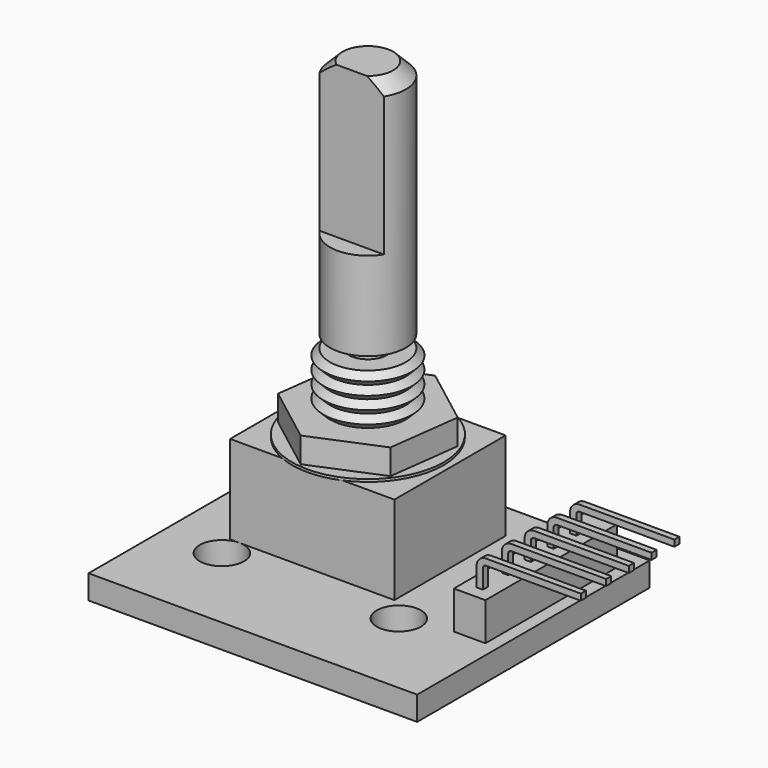
from build123d import *

# Parameters (mm, degrees)
F0_W      = 26
F0_H      = 23
F1_DEPTH  = 1.9
F3_W      = 13
F3_H      = 11
F4_DEPTH  = 7
F5_R      = 6
F6_DEPTH  = 0.2
F8_DEPTH  = 2
F14_W     = 6.9831185974
F14_H     = 2.036742866
F15_DEPTH = 12
F16_SIZE  = 1
F17_W     = 2.5
F17_H     = 13
F18_DEPTH = 3
F20_R     = 1.75
F21_DEPTH = 2
F23_W     = 0.5
F23_H     = 0.5
F27_DEPTH = 0.5
F30_DEPTH = 0.5
F33_DEPTH = 0.5
F36_DEPTH = 0.5


with BuildPart() as f1:
    # F0 (on Top) → F1 (new body)
    with BuildSketch(Plane.XY):
        with Locations((13, 11.5)):
            Rectangle(F0_W, F0_H)
    extrude(amount=F1_DEPTH)

    # F3 (on face) → F4 (join)
    with BuildSketch(Plane.XY.offset(1.9)):
        with Locations((10.5, 14.5)):
            Rectangle(F3_W, F3_H)
    extrude(amount=F4_DEPTH)

    # F5 (on face) → F6 (join)
    with BuildSketch(Plane.XY.offset(8.9)):
        with Locations((10.5, 14.5)):
            Circle(F5_R)
    extrude(amount=F6_DEPTH)

    # F7 (on face) → F8 (join)
    with BuildSketch(Plane.XY.offset(9.1)):
        Polygon((5.1715213938, 12.277242911), (9.7607248024, 8.774023619), (15.0892034086, 10.996780708), (15.8284786062, 16.722757089), (11.2392751976, 20.225976381), (5.9107965914, 18.003219292), align=None)
    extrude(amount=F8_DEPTH)

    # F10 (on offset) → F11 (revolve)
    with BuildSketch(Plane(origin=(0, 14.5, 0), x_dir=(-1, 0, 0), z_dir=(0, 1, 0))):
        Polygon((-7.5, 11.1), (-7, 11.6), (-7.5, 12.1), (-7, 12.6), (-7.5, 13.1), (-7, 13.6), (-7.5, 14.1), (-7, 14.6), (-7.5, 15.1), (-10.5, 15.1), (-10.5, 11.1), align=None)
    revolve(axis=Axis((10.5, 14.5, 17.7832646295), (0, 0, -1)))

    # F12 (on offset) → F13 (revolve)
    with BuildSketch(Plane(origin=(0, 14.5, 0), x_dir=(-1, 0, 0), z_dir=(0, 1, 0))):
        Polygon((-7.5, 35.1), (-10.5, 35.1), (-10.5, 15.1), (-9, 15.1), (-9, 16.1), (-7.5, 16.1), align=None)
    revolve(axis=Axis((10.5, 14.5, 21.5967431704), (0, 0, -1)))

    # F14 (on face) → F15 (cut)
    with BuildSketch(Plane.XY.offset(35.1)):
        with Locations((10.4028915521, 11.8824467063)):
            Rectangle(F14_W, F14_H)
    extrude(amount=-F15_DEPTH, mode=Mode.SUBTRACT)

    # F16
    f16_edges = [f1.edges().sort_by_distance(p)[0] for p in [
        (11.332258, 17.382247, 35.1),
    ]]
    chamfer(f16_edges, length=F16_SIZE)

    # F17 (on face) → F18 (join)
    with BuildSketch(Plane.XY.offset(1.9)):
        with Locations((23.75, 14.5)):
            Rectangle(F17_W, F17_H)
    extrude(amount=F18_DEPTH)

    # F20 (on face) → F21 (cut)
    with BuildSketch(Plane.XY.offset(1.9)):
        with Locations((4.75, 7.25)):
            Circle(F20_R)
        with Locations((18.75, 7.25)):
            Circle(F20_R)
    extrude(amount=-F21_DEPTH, mode=Mode.SUBTRACT)

    # F24: sweep along a path in F22
    with BuildLine(Plane.XZ.offset(-9.25)) as f24_path:
        Line((23.75, 4.9), (23.75, 6.4))
        ThreePointArc((23.75, 6.4), (23.8964466094, 6.7535533906), (24.25, 6.9))
        Line((24.25, 6.9), (31.75, 6.9))
    # F23 (on face) → F24 (sweep)
    with BuildSketch(Plane.XY.offset(4.9)):
        with Locations((23.75, 9.25)):
            Rectangle(F23_W, F23_H)
    sweep(path=f24_path.line)

    # F26 (on offset) → F27 (join)
    with BuildSketch(Plane.XZ.offset(-11.5)):
        with BuildLine():
            Line((23.5, 6.4), (23.5, 4.9))
            Line((23.5, 4.9), (24, 4.9))
            Line((24, 4.9), (24, 6.4))
            ThreePointArc((24, 6.4), (24.0732233047, 6.5767766953), (24.25, 6.65))
            Line((24.25, 6.65), (31.75, 6.65))
            Line((31.75, 6.65), (31.75, 7.15))
            Line((31.75, 7.15), (24.25, 7.15))
            ThreePointArc((24.25, 7.15), (23.7196699141, 6.9303300859), (23.5, 6.4))
        make_face()
    extrude(amount=-F27_DEPTH)

    # F29 (on offset) → F30 (join)
    with BuildSketch(Plane.XZ.offset(-13.75)):
        with BuildLine():
            Line((23.5, 6.4), (23.5, 4.9))
            Line((23.5, 4.9), (24, 4.9))
            Line((24, 4.9), (24, 6.4))
            ThreePointArc((24, 6.4), (24.0732233047, 6.5767766953), (24.25, 6.65))
            Line((24.25, 6.65), (31.75, 6.65))
            Line((31.75, 6.65), (31.75, 7.15))
            Line((31.75, 7.15), (24.25, 7.15))
            ThreePointArc((24.25, 7.15), (23.7196699141, 6.9303300859), (23.5, 6.4))
        make_face()
    extrude(amount=-F30_DEPTH)

    # F32 (on offset) → F33 (join)
    with BuildSketch(Plane.XZ.offset(-16)):
        with BuildLine():
            Line((31.75, 7.15), (24.25, 7.15))
            ThreePointArc((24.25, 7.15), (23.7196699141, 6.9303300859), (23.5, 6.4))
            Line((23.5, 6.4), (23.5, 4.9))
            Line((23.5, 4.9), (24, 4.9))
            Line((24, 4.9), (24, 6.4))
            ThreePointArc((24, 6.4), (24.0732233047, 6.5767766953), (24.25, 6.65))
            Line((24.25, 6.65), (31.75, 6.65))
            Line((31.75, 6.65), (31.75, 7.15))
        make_face()
    extrude(amount=-F33_DEPTH)

    # F35 (on offset) → F36 (join)
    with BuildSketch(Plane.XZ.offset(-18.25)):
        with BuildLine():
            ThreePointArc((24, 6.4), (24.0732233047, 6.5767766953), (24.25, 6.65))
            Line((24.25, 6.65), (31.75, 6.65))
            Line((31.75, 6.65), (31.75, 7.15))
            Line((31.75, 7.15), (24.25, 7.15))
            ThreePointArc((24.25, 7.15), (23.7196699141, 6.9303300859), (23.5, 6.4))
            Line((23.5, 6.4), (23.5, 4.9))
            Line((23.5, 4.9), (24, 4.9))
            Line((24, 4.9), (24, 6.4))
        make_face()
    extrude(amount=-F36_DEPTH)


solid = f1.part
